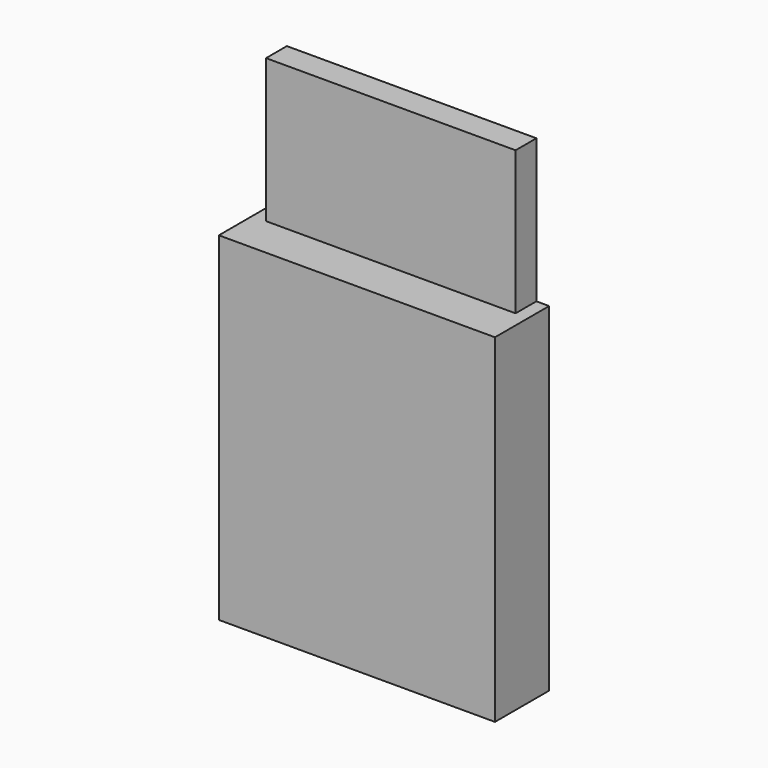
from build123d import *

# Parameters (mm, degrees)
F0_W     = 134.62
F0_H     = 165.1
F0_W_2   = 121.92
F0_H_2   = 152.4
F1_DEPTH = 33.02
F2_W     = 121.92
F2_H     = 152.4
F4_DEPTH = 7.62
F5_W     = 121.666
F5_H     = 69.9852703571
F6_DEPTH = 12.7
F7_DEPTH = 5.08
F8_DEPTH = 3.81


with BuildPart() as f1:
    # F0 (on Front) → F1 (new body)
    with BuildSketch(Plane.XZ):
        with Locations((67.31, 82.55)):
            Rectangle(F0_W, F0_H)
        with Locations((67.31, 82.55)):
            Rectangle(F0_W_2, F0_H_2, mode=Mode.SUBTRACT)
    extrude(amount=F1_DEPTH)

    # F2 (on face) → F4 (join)
    with BuildSketch(Plane.XZ.offset(33.02)):
        with Locations((67.31, 82.55)):
            Rectangle(F2_W, F2_H)
    extrude(amount=-F4_DEPTH)

    # F5 (on face) → F6 (join)
    with BuildSketch(Plane(origin=(0, 0, 0), x_dir=(-1, 0, 0), z_dir=(0, 1, 0))):
        with Locations((-67.5779950066, 200.0926351786)):
            Rectangle(F5_W, F5_H)
    extrude(amount=-F6_DEPTH)

    # F7 (add): a face of the model
    f7_faces = [f1.faces().sort_by_distance(p)[0] for p in [
        (67.31, -16.51, 0),
    ]]
    extrude(f7_faces, amount=-F7_DEPTH)

    # F8 (add): a face of the model
    f8_faces = [f1.faces().sort_by_distance(p)[0] for p in [
        (67.31, -16.51, 0),
    ]]
    extrude(f8_faces, amount=-F8_DEPTH)


solid = f1.part
